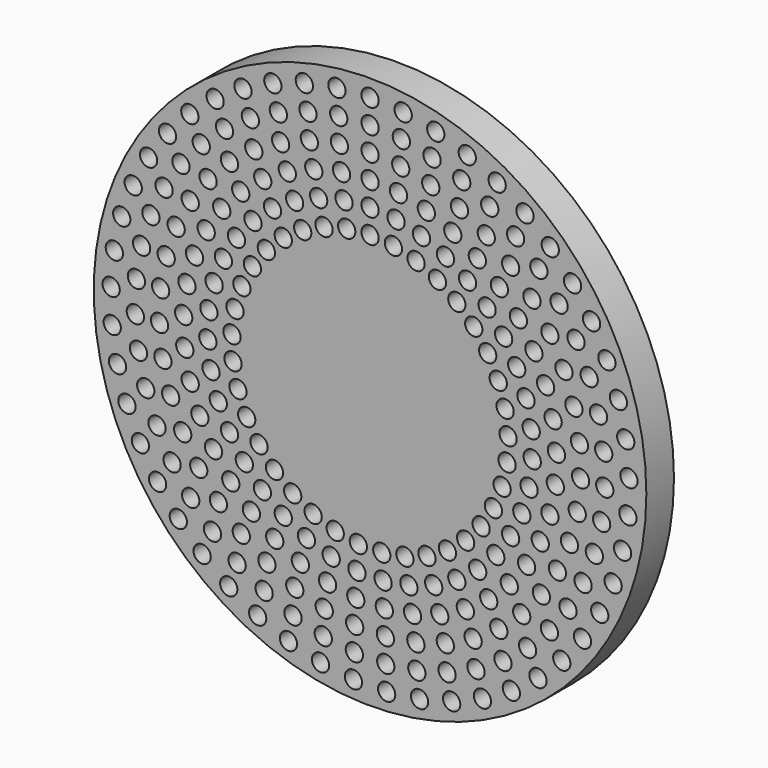
from build123d import *

# Parameters (mm, degrees)
F0_R     = 50.8
F0_R_2   = 1.5875
F1_DEPTH = 3.175


with BuildPart() as f1:
    # F0 (on Front) → F1 (new body, symmetric)
    with BuildSketch(Plane.XZ):
        Circle(F0_R)
        with Locations((-25.9811, -39.913946)):
            Circle(F0_R_2, mode=Mode.SUBTRACT)
        with Locations((-39.060704, -27.247056)):
            Circle(F0_R_2, mode=Mode.SUBTRACT)
        with Locations((-35.25574, -32.01833)):
            Circle(F0_R_2, mode=Mode.SUBTRACT)
        with Locations((-30.871877, -36.263864)):
            Circle(F0_R_2, mode=Mode.SUBTRACT)
        with Locations((-28.964485, -32.024538)):
            Circle(F0_R_2, mode=Mode.SUBTRACT)
        with Locations((-32.974502, -27.878211)):
            Circle(F0_R_2, mode=Mode.SUBTRACT)
        with Locations((-27.885461, -26.884964)):
            Circle(F0_R_2, mode=Mode.SUBTRACT)
        with Locations((-15.007029, -45.19878)):
            Circle(F0_R_2, mode=Mode.SUBTRACT)
        with Locations((-20.663713, -42.908642)):
            Circle(F0_R_2, mode=Mode.SUBTRACT)
        with Locations((-19.474617, -38.538963)):
            Circle(F0_R_2, mode=Mode.SUBTRACT)
        with Locations((-14.164113, -40.790811)):
            Circle(F0_R_2, mode=Mode.SUBTRACT)
        with Locations((-9.10393, -46.746755)):
            Circle(F0_R_2, mode=Mode.SUBTRACT)
        with Locations((-3.051344, -47.527149)):
            Circle(F0_R_2, mode=Mode.SUBTRACT)
        with Locations((-8.600851, -42.314746)):
            Circle(F0_R_2, mode=Mode.SUBTRACT)
        with Locations((-2.884106, -43.083574)):
            Circle(F0_R_2, mode=Mode.SUBTRACT)
        with Locations((-2.827474, -38.631666)):
            Circle(F0_R_2, mode=Mode.SUBTRACT)
        with Locations((-24.437596, -35.599387)):
            Circle(F0_R_2, mode=Mode.SUBTRACT)
        with Locations((-13.837339, -36.179114)):
            Circle(F0_R_2, mode=Mode.SUBTRACT)
        with Locations((-18.9576, -33.778834)):
            Circle(F0_R_2, mode=Mode.SUBTRACT)
        with Locations((-12.818187, -31.804059)):
            Circle(F0_R_2, mode=Mode.SUBTRACT)
        with Locations((-23.673814, -30.658616)):
            Circle(F0_R_2, mode=Mode.SUBTRACT)
        with Locations((-21.816753, -26.454364)):
            Circle(F0_R_2, mode=Mode.SUBTRACT)
        with Locations((-17.522831, -29.474642)):
            Circle(F0_R_2, mode=Mode.SUBTRACT)
        with Locations((-8.422158, -37.808299)):
            Circle(F0_R_2, mode=Mode.SUBTRACT)
        with Locations((-7.813097, -33.388016)):
            Circle(F0_R_2, mode=Mode.SUBTRACT)
        with Locations((-2.624874, -34.189386)):
            Circle(F0_R_2, mode=Mode.SUBTRACT)
        with Locations((-7.142376, -28.977759)):
            Circle(F0_R_2, mode=Mode.SUBTRACT)
        with Locations((-11.698243, -27.456786)):
            Circle(F0_R_2, mode=Mode.SUBTRACT)
        with Locations((-2.401525, -29.748222)):
            Circle(F0_R_2, mode=Mode.SUBTRACT)
        with Locations((-42.224292, -22.028386)):
            Circle(F0_R_2, mode=Mode.SUBTRACT)
        with Locations((-44.694559, -16.448011)):
            Circle(F0_R_2, mode=Mode.SUBTRACT)
        with Locations((-39.168186, -18.175963)):
            Circle(F0_R_2, mode=Mode.SUBTRACT)
        with Locations((-41.241326, -12.79318)):
            Circle(F0_R_2, mode=Mode.SUBTRACT)
        with Locations((-36.396088, -23.234396)):
            Circle(F0_R_2, mode=Mode.SUBTRACT)
        with Locations((-31.502778, -22.538305)):
            Circle(F0_R_2, mode=Mode.SUBTRACT)
        with Locations((-25.59931, -22.814018)):
            Circle(F0_R_2, mode=Mode.SUBTRACT)
        with Locations((-34.448668, -17.711281)):
            Circle(F0_R_2, mode=Mode.SUBTRACT)
        with Locations((-28.78184, -18.638931)):
            Circle(F0_R_2, mode=Mode.SUBTRACT)
        with Locations((-31.289749, -14.026964)):
            Circle(F0_R_2, mode=Mode.SUBTRACT)
        with Locations((-25.846528, -14.9225)):
            Circle(F0_R_2, mode=Mode.SUBTRACT)
        with Locations((-46.430942, -10.597559)):
            Circle(F0_R_2, mode=Mode.SUBTRACT)
        with Locations((-42.578514, -7.182102)):
            Circle(F0_R_2, mode=Mode.SUBTRACT)
        with Locations((-47.40493, -4.573097)):
            Circle(F0_R_2, mode=Mode.SUBTRACT)
        with Locations((-43.155887, -1.442859)):
            Circle(F0_R_2, mode=Mode.SUBTRACT)
        with Locations((-38.709158, -1.414681)):
            Circle(F0_R_2, mode=Mode.SUBTRACT)
        with Locations((-36.660345, -12.506772)):
            Circle(F0_R_2, mode=Mode.SUBTRACT)
        with Locations((-38.090669, -7.035703)):
            Circle(F0_R_2, mode=Mode.SUBTRACT)
        with Locations((-33.064252, -9.086216)):
            Circle(F0_R_2, mode=Mode.SUBTRACT)
        with Locations((-27.90556, -10.583183)):
            Circle(F0_R_2, mode=Mode.SUBTRACT)
        with Locations((-34.063758, -3.932495)):
            Circle(F0_R_2, mode=Mode.SUBTRACT)
        with Locations((-29.241852, -5.969767)):
            Circle(F0_R_2, mode=Mode.SUBTRACT)
        with Locations((-29.820796, -1.201737)):
            Circle(F0_R_2, mode=Mode.SUBTRACT)
        with Locations((-19.790896, -22.339303)):
            Circle(F0_R_2, mode=Mode.SUBTRACT)
        with Locations((-15.951133, -25.224698)):
            Circle(F0_R_2, mode=Mode.SUBTRACT)
        with Locations((-14.22336, -21.044145)):
            Circle(F0_R_2, mode=Mode.SUBTRACT)
        with Locations((-23.118085, -18.875332)):
            Circle(F0_R_2, mode=Mode.SUBTRACT)
        with Locations((-20.421527, -15.103683)):
            Circle(F0_R_2, mode=Mode.SUBTRACT)
        with Locations((-17.575247, -18.337685)):
            Circle(F0_R_2, mode=Mode.SUBTRACT)
        with Locations((-10.462292, -23.145204)):
            Circle(F0_R_2, mode=Mode.SUBTRACT)
        with Locations((-6.400243, -24.580417)):
            Circle(F0_R_2, mode=Mode.SUBTRACT)
        with Locations((-2.15407, -25.308496)):
            Circle(F0_R_2, mode=Mode.SUBTRACT)
        with Locations((-22.680317, -11.435175)):
            Circle(F0_R_2, mode=Mode.SUBTRACT)
        with Locations((-24.286635, -7.437698)):
            Circle(F0_R_2, mode=Mode.SUBTRACT)
        with Locations((-25.194271, -3.226253)):
            Circle(F0_R_2, mode=Mode.SUBTRACT)
        with Locations((3.051344, -47.527149)):
            Circle(F0_R_2, mode=Mode.SUBTRACT)
        with Locations((9.10393, -46.746755)):
            Circle(F0_R_2, mode=Mode.SUBTRACT)
        with Locations((2.884106, -43.083574)):
            Circle(F0_R_2, mode=Mode.SUBTRACT)
        with Locations((2.827474, -38.631666)):
            Circle(F0_R_2, mode=Mode.SUBTRACT)
        with Locations((8.600851, -42.314746)):
            Circle(F0_R_2, mode=Mode.SUBTRACT)
        with Locations((15.007029, -45.19878)):
            Circle(F0_R_2, mode=Mode.SUBTRACT)
        with Locations((14.164113, -40.790811)):
            Circle(F0_R_2, mode=Mode.SUBTRACT)
        with Locations((20.663713, -42.908642)):
            Circle(F0_R_2, mode=Mode.SUBTRACT)
        with Locations((19.474617, -38.538963)):
            Circle(F0_R_2, mode=Mode.SUBTRACT)
        with Locations((2.624874, -34.189386)):
            Circle(F0_R_2, mode=Mode.SUBTRACT)
        with Locations((8.422158, -37.808299)):
            Circle(F0_R_2, mode=Mode.SUBTRACT)
        with Locations((7.813097, -33.388016)):
            Circle(F0_R_2, mode=Mode.SUBTRACT)
        with Locations((2.401525, -29.748222)):
            Circle(F0_R_2, mode=Mode.SUBTRACT)
        with Locations((7.142376, -28.977759)):
            Circle(F0_R_2, mode=Mode.SUBTRACT)
        with Locations((11.698243, -27.456786)):
            Circle(F0_R_2, mode=Mode.SUBTRACT)
        with Locations((13.837339, -36.179114)):
            Circle(F0_R_2, mode=Mode.SUBTRACT)
        with Locations((12.818187, -31.804059)):
            Circle(F0_R_2, mode=Mode.SUBTRACT)
        with Locations((18.9576, -33.778834)):
            Circle(F0_R_2, mode=Mode.SUBTRACT)
        with Locations((24.437596, -35.599387)):
            Circle(F0_R_2, mode=Mode.SUBTRACT)
        with Locations((17.522831, -29.474642)):
            Circle(F0_R_2, mode=Mode.SUBTRACT)
        with Locations((23.673814, -30.658616)):
            Circle(F0_R_2, mode=Mode.SUBTRACT)
        with Locations((21.816753, -26.454364)):
            Circle(F0_R_2, mode=Mode.SUBTRACT)
        with Locations((25.9811, -39.913946)):
            Circle(F0_R_2, mode=Mode.SUBTRACT)
        with Locations((30.871877, -36.263864)):
            Circle(F0_R_2, mode=Mode.SUBTRACT)
        with Locations((28.964485, -32.024538)):
            Circle(F0_R_2, mode=Mode.SUBTRACT)
        with Locations((35.25574, -32.01833)):
            Circle(F0_R_2, mode=Mode.SUBTRACT)
        with Locations((27.885461, -26.884964)):
            Circle(F0_R_2, mode=Mode.SUBTRACT)
        with Locations((32.974502, -27.878211)):
            Circle(F0_R_2, mode=Mode.SUBTRACT)
        with Locations((39.060704, -27.247056)):
            Circle(F0_R_2, mode=Mode.SUBTRACT)
        with Locations((2.15407, -25.308496)):
            Circle(F0_R_2, mode=Mode.SUBTRACT)
        with Locations((6.400243, -24.580417)):
            Circle(F0_R_2, mode=Mode.SUBTRACT)
        with Locations((10.462292, -23.145204)):
            Circle(F0_R_2, mode=Mode.SUBTRACT)
        with Locations((15.951133, -25.224698)):
            Circle(F0_R_2, mode=Mode.SUBTRACT)
        with Locations((14.22336, -21.044145)):
            Circle(F0_R_2, mode=Mode.SUBTRACT)
        with Locations((19.790896, -22.339303)):
            Circle(F0_R_2, mode=Mode.SUBTRACT)
        with Locations((17.575247, -18.337685)):
            Circle(F0_R_2, mode=Mode.SUBTRACT)
        with Locations((23.118085, -18.875332)):
            Circle(F0_R_2, mode=Mode.SUBTRACT)
        with Locations((20.421527, -15.103683)):
            Circle(F0_R_2, mode=Mode.SUBTRACT)
        with Locations((22.680317, -11.435175)):
            Circle(F0_R_2, mode=Mode.SUBTRACT)
        with Locations((24.286635, -7.437698)):
            Circle(F0_R_2, mode=Mode.SUBTRACT)
        with Locations((25.194271, -3.226253)):
            Circle(F0_R_2, mode=Mode.SUBTRACT)
        with Locations((25.59931, -22.814018)):
            Circle(F0_R_2, mode=Mode.SUBTRACT)
        with Locations((31.502778, -22.538305)):
            Circle(F0_R_2, mode=Mode.SUBTRACT)
        with Locations((36.396088, -23.234396)):
            Circle(F0_R_2, mode=Mode.SUBTRACT)
        with Locations((28.78184, -18.638931)):
            Circle(F0_R_2, mode=Mode.SUBTRACT)
        with Locations((25.846528, -14.9225)):
            Circle(F0_R_2, mode=Mode.SUBTRACT)
        with Locations((31.289749, -14.026964)):
            Circle(F0_R_2, mode=Mode.SUBTRACT)
        with Locations((34.448668, -17.711281)):
            Circle(F0_R_2, mode=Mode.SUBTRACT)
        with Locations((42.224292, -22.028386)):
            Circle(F0_R_2, mode=Mode.SUBTRACT)
        with Locations((39.168186, -18.175963)):
            Circle(F0_R_2, mode=Mode.SUBTRACT)
        with Locations((41.241326, -12.79318)):
            Circle(F0_R_2, mode=Mode.SUBTRACT)
        with Locations((44.694559, -16.448011)):
            Circle(F0_R_2, mode=Mode.SUBTRACT)
        with Locations((27.90556, -10.583183)):
            Circle(F0_R_2, mode=Mode.SUBTRACT)
        with Locations((36.660345, -12.506772)):
            Circle(F0_R_2, mode=Mode.SUBTRACT)
        with Locations((33.064252, -9.086216)):
            Circle(F0_R_2, mode=Mode.SUBTRACT)
        with Locations((38.090669, -7.035703)):
            Circle(F0_R_2, mode=Mode.SUBTRACT)
        with Locations((29.241852, -5.969767)):
            Circle(F0_R_2, mode=Mode.SUBTRACT)
        with Locations((29.820796, -1.201737)):
            Circle(F0_R_2, mode=Mode.SUBTRACT)
        with Locations((34.063758, -3.932495)):
            Circle(F0_R_2, mode=Mode.SUBTRACT)
        with Locations((42.578514, -7.182102)):
            Circle(F0_R_2, mode=Mode.SUBTRACT)
        with Locations((46.430942, -10.597559)):
            Circle(F0_R_2, mode=Mode.SUBTRACT)
        with Locations((38.709158, -1.414681)):
            Circle(F0_R_2, mode=Mode.SUBTRACT)
        with Locations((43.155887, -1.442859)):
            Circle(F0_R_2, mode=Mode.SUBTRACT)
        with Locations((47.40493, -4.573097)):
            Circle(F0_R_2, mode=Mode.SUBTRACT)
        with Locations((-47.600531, 1.526456)):
            Circle(F0_R_2, mode=Mode.SUBTRACT)
        with Locations((-42.963142, 4.322132)):
            Circle(F0_R_2, mode=Mode.SUBTRACT)
        with Locations((-38.502628, 4.236494)):
            Circle(F0_R_2, mode=Mode.SUBTRACT)
        with Locations((-47.014532, 7.600945)):
            Circle(F0_R_2, mode=Mode.SUBTRACT)
        with Locations((-42.003719, 10.009994)):
            Circle(F0_R_2, mode=Mode.SUBTRACT)
        with Locations((-34.264837, 1.313401)):
            Circle(F0_R_2, mode=Mode.SUBTRACT)
        with Locations((-29.627396, 3.597417)):
            Circle(F0_R_2, mode=Mode.SUBTRACT)
        with Locations((-33.662778, 6.528511)):
            Circle(F0_R_2, mode=Mode.SUBTRACT)
        with Locations((-37.475481, 9.797375)):
            Circle(F0_R_2, mode=Mode.SUBTRACT)
        with Locations((-32.271692, 11.590599)):
            Circle(F0_R_2, mode=Mode.SUBTRACT)
        with Locations((-28.666663, 8.3034)):
            Circle(F0_R_2, mode=Mode.SUBTRACT)
        with Locations((-45.656557, 13.550626)):
            Circle(F0_R_2, mode=Mode.SUBTRACT)
        with Locations((-40.294739, 15.519228)):
            Circle(F0_R_2, mode=Mode.SUBTRACT)
        with Locations((-43.548901, 19.277807)):
            Circle(F0_R_2, mode=Mode.SUBTRACT)
        with Locations((-40.726174, 24.688446)):
            Circle(F0_R_2, mode=Mode.SUBTRACT)
        with Locations((-35.649609, 15.149441)):
            Circle(F0_R_2, mode=Mode.SUBTRACT)
        with Locations((-26.963478, 12.794329)):
            Circle(F0_R_2, mode=Mode.SUBTRACT)
        with Locations((-30.124185, 16.381013)):
            Circle(F0_R_2, mode=Mode.SUBTRACT)
        with Locations((-37.866698, 20.75152)):
            Circle(F0_R_2, mode=Mode.SUBTRACT)
        with Locations((-33.063928, 20.178624)):
            Circle(F0_R_2, mode=Mode.SUBTRACT)
        with Locations((-27.270593, 20.787469)):
            Circle(F0_R_2, mode=Mode.SUBTRACT)
        with Locations((-29.773547, 24.777734)):
            Circle(F0_R_2, mode=Mode.SUBTRACT)
        with Locations((-25.377114, 1.078007)):
            Circle(F0_R_2, mode=Mode.SUBTRACT)
        with Locations((-24.829903, 5.351253)):
            Circle(F0_R_2, mode=Mode.SUBTRACT)
        with Locations((-23.568381, 9.470555)):
            Circle(F0_R_2, mode=Mode.SUBTRACT)
        with Locations((-21.62884, 13.317405)):
            Circle(F0_R_2, mode=Mode.SUBTRACT)
        with Locations((-24.561953, 16.953892)):
            Circle(F0_R_2, mode=Mode.SUBTRACT)
        with Locations((-19.067077, 16.781138)):
            Circle(F0_R_2, mode=Mode.SUBTRACT)
        with Locations((-21.524287, 20.674358)):
            Circle(F0_R_2, mode=Mode.SUBTRACT)
        with Locations((-23.7778, 24.706685)):
            Circle(F0_R_2, mode=Mode.SUBTRACT)
        with Locations((-15.956788, 19.762108)):
            Circle(F0_R_2, mode=Mode.SUBTRACT)
        with Locations((-17.929153, 23.859369)):
            Circle(F0_R_2, mode=Mode.SUBTRACT)
        with Locations((-12.387452, 22.174558)):
            Circle(F0_R_2, mode=Mode.SUBTRACT)
        with Locations((-8.461751, 23.949087)):
            Circle(F0_R_2, mode=Mode.SUBTRACT)
        with Locations((-4.292621, 25.034644)):
            Circle(F0_R_2, mode=Mode.SUBTRACT)
        with Locations((0, 25.4)):
            Circle(F0_R_2, mode=Mode.SUBTRACT)
        with Locations((-34.762925, 25.613501)):
            Circle(F0_R_2, mode=Mode.SUBTRACT)
        with Locations((-37.234724, 29.693702)):
            Circle(F0_R_2, mode=Mode.SUBTRACT)
        with Locations((-31.038807, 30.018409)):
            Circle(F0_R_2, mode=Mode.SUBTRACT)
        with Locations((-25.848594, 28.84875)):
            Circle(F0_R_2, mode=Mode.SUBTRACT)
        with Locations((-33.131881, 34.211388)):
            Circle(F0_R_2, mode=Mode.SUBTRACT)
        with Locations((-26.7608, 33.887637)):
            Circle(F0_R_2, mode=Mode.SUBTRACT)
        with Locations((-28.485014, 38.167324)):
            Circle(F0_R_2, mode=Mode.SUBTRACT)
        with Locations((-19.727677, 28.046798)):
            Circle(F0_R_2, mode=Mode.SUBTRACT)
        with Locations((-13.869663, 26.426435)):
            Circle(F0_R_2, mode=Mode.SUBTRACT)
        with Locations((-15.215153, 30.729517)):
            Circle(F0_R_2, mode=Mode.SUBTRACT)
        with Locations((-21.372723, 32.304905)):
            Circle(F0_R_2, mode=Mode.SUBTRACT)
        with Locations((-22.005247, 37.15214)):
            Circle(F0_R_2, mode=Mode.SUBTRACT)
        with Locations((-16.44133, 35.072537)):
            Circle(F0_R_2, mode=Mode.SUBTRACT)
        with Locations((-9.450956, 28.30907)):
            Circle(F0_R_2, mode=Mode.SUBTRACT)
        with Locations((-4.787475, 29.458515)):
            Circle(F0_R_2, mode=Mode.SUBTRACT)
        with Locations((0, 29.845)):
            Circle(F0_R_2, mode=Mode.SUBTRACT)
        with Locations((-10.345999, 32.691962)):
            Circle(F0_R_2, mode=Mode.SUBTRACT)
        with Locations((-11.159519, 37.092659)):
            Circle(F0_R_2, mode=Mode.SUBTRACT)
        with Locations((-5.234344, 33.888136)):
            Circle(F0_R_2, mode=Mode.SUBTRACT)
        with Locations((0, 34.29)):
            Circle(F0_R_2, mode=Mode.SUBTRACT)
        with Locations((-23.370423, 41.496553)):
            Circle(F0_R_2, mode=Mode.SUBTRACT)
        with Locations((-16.857009, 39.753662)):
            Circle(F0_R_2, mode=Mode.SUBTRACT)
        with Locations((-17.872091, 44.144411)):
            Circle(F0_R_2, mode=Mode.SUBTRACT)
        with Locations((-11.407957, 41.645779)):
            Circle(F0_R_2, mode=Mode.SUBTRACT)
        with Locations((-5.639861, 38.322215)):
            Circle(F0_R_2, mode=Mode.SUBTRACT)
        with Locations((0, 38.735)):
            Circle(F0_R_2, mode=Mode.SUBTRACT)
        with Locations((-5.755331, 42.794726)):
            Circle(F0_R_2, mode=Mode.SUBTRACT)
        with Locations((0, 43.18)):
            Circle(F0_R_2, mode=Mode.SUBTRACT)
        with Locations((-12.0803, 46.067418)):
            Circle(F0_R_2, mode=Mode.SUBTRACT)
        with Locations((-6.09015, 47.233999)):
            Circle(F0_R_2, mode=Mode.SUBTRACT)
        with Locations((0, 47.625)):
            Circle(F0_R_2, mode=Mode.SUBTRACT)
        with Locations((25.377114, 1.078007)):
            Circle(F0_R_2, mode=Mode.SUBTRACT)
        with Locations((24.829903, 5.351253)):
            Circle(F0_R_2, mode=Mode.SUBTRACT)
        with Locations((23.568381, 9.470555)):
            Circle(F0_R_2, mode=Mode.SUBTRACT)
        with Locations((4.292621, 25.034644)):
            Circle(F0_R_2, mode=Mode.SUBTRACT)
        with Locations((12.387452, 22.174558)):
            Circle(F0_R_2, mode=Mode.SUBTRACT)
        with Locations((8.461751, 23.949087)):
            Circle(F0_R_2, mode=Mode.SUBTRACT)
        with Locations((21.62884, 13.317405)):
            Circle(F0_R_2, mode=Mode.SUBTRACT)
        with Locations((19.067077, 16.781138)):
            Circle(F0_R_2, mode=Mode.SUBTRACT)
        with Locations((24.561953, 16.953892)):
            Circle(F0_R_2, mode=Mode.SUBTRACT)
        with Locations((15.956788, 19.762108)):
            Circle(F0_R_2, mode=Mode.SUBTRACT)
        with Locations((17.929153, 23.859369)):
            Circle(F0_R_2, mode=Mode.SUBTRACT)
        with Locations((21.524287, 20.674358)):
            Circle(F0_R_2, mode=Mode.SUBTRACT)
        with Locations((23.7778, 24.706685)):
            Circle(F0_R_2, mode=Mode.SUBTRACT)
        with Locations((29.627396, 3.597417)):
            Circle(F0_R_2, mode=Mode.SUBTRACT)
        with Locations((34.264837, 1.313401)):
            Circle(F0_R_2, mode=Mode.SUBTRACT)
        with Locations((28.666663, 8.3034)):
            Circle(F0_R_2, mode=Mode.SUBTRACT)
        with Locations((33.662778, 6.528511)):
            Circle(F0_R_2, mode=Mode.SUBTRACT)
        with Locations((32.271692, 11.590599)):
            Circle(F0_R_2, mode=Mode.SUBTRACT)
        with Locations((37.475481, 9.797375)):
            Circle(F0_R_2, mode=Mode.SUBTRACT)
        with Locations((38.502628, 4.236494)):
            Circle(F0_R_2, mode=Mode.SUBTRACT)
        with Locations((42.963142, 4.322132)):
            Circle(F0_R_2, mode=Mode.SUBTRACT)
        with Locations((47.600531, 1.526456)):
            Circle(F0_R_2, mode=Mode.SUBTRACT)
        with Locations((42.003719, 10.009994)):
            Circle(F0_R_2, mode=Mode.SUBTRACT)
        with Locations((47.014532, 7.600945)):
            Circle(F0_R_2, mode=Mode.SUBTRACT)
        with Locations((26.963478, 12.794329)):
            Circle(F0_R_2, mode=Mode.SUBTRACT)
        with Locations((30.124185, 16.381013)):
            Circle(F0_R_2, mode=Mode.SUBTRACT)
        with Locations((35.649609, 15.149441)):
            Circle(F0_R_2, mode=Mode.SUBTRACT)
        with Locations((27.270593, 20.787469)):
            Circle(F0_R_2, mode=Mode.SUBTRACT)
        with Locations((29.773547, 24.777734)):
            Circle(F0_R_2, mode=Mode.SUBTRACT)
        with Locations((33.063928, 20.178624)):
            Circle(F0_R_2, mode=Mode.SUBTRACT)
        with Locations((37.866698, 20.75152)):
            Circle(F0_R_2, mode=Mode.SUBTRACT)
        with Locations((40.294739, 15.519228)):
            Circle(F0_R_2, mode=Mode.SUBTRACT)
        with Locations((45.656557, 13.550626)):
            Circle(F0_R_2, mode=Mode.SUBTRACT)
        with Locations((43.548901, 19.277807)):
            Circle(F0_R_2, mode=Mode.SUBTRACT)
        with Locations((40.726174, 24.688446)):
            Circle(F0_R_2, mode=Mode.SUBTRACT)
        with Locations((4.787475, 29.458515)):
            Circle(F0_R_2, mode=Mode.SUBTRACT)
        with Locations((9.450956, 28.30907)):
            Circle(F0_R_2, mode=Mode.SUBTRACT)
        with Locations((5.234344, 33.888136)):
            Circle(F0_R_2, mode=Mode.SUBTRACT)
        with Locations((10.345999, 32.691962)):
            Circle(F0_R_2, mode=Mode.SUBTRACT)
        with Locations((11.159519, 37.092659)):
            Circle(F0_R_2, mode=Mode.SUBTRACT)
        with Locations((13.869663, 26.426435)):
            Circle(F0_R_2, mode=Mode.SUBTRACT)
        with Locations((15.215153, 30.729517)):
            Circle(F0_R_2, mode=Mode.SUBTRACT)
        with Locations((19.727677, 28.046798)):
            Circle(F0_R_2, mode=Mode.SUBTRACT)
        with Locations((16.44133, 35.072537)):
            Circle(F0_R_2, mode=Mode.SUBTRACT)
        with Locations((21.372723, 32.304905)):
            Circle(F0_R_2, mode=Mode.SUBTRACT)
        with Locations((22.005247, 37.15214)):
            Circle(F0_R_2, mode=Mode.SUBTRACT)
        with Locations((5.639861, 38.322215)):
            Circle(F0_R_2, mode=Mode.SUBTRACT)
        with Locations((5.755331, 42.794726)):
            Circle(F0_R_2, mode=Mode.SUBTRACT)
        with Locations((11.407957, 41.645779)):
            Circle(F0_R_2, mode=Mode.SUBTRACT)
        with Locations((6.09015, 47.233999)):
            Circle(F0_R_2, mode=Mode.SUBTRACT)
        with Locations((12.0803, 46.067418)):
            Circle(F0_R_2, mode=Mode.SUBTRACT)
        with Locations((16.857009, 39.753662)):
            Circle(F0_R_2, mode=Mode.SUBTRACT)
        with Locations((17.872091, 44.144411)):
            Circle(F0_R_2, mode=Mode.SUBTRACT)
        with Locations((23.370423, 41.496553)):
            Circle(F0_R_2, mode=Mode.SUBTRACT)
        with Locations((25.848594, 28.84875)):
            Circle(F0_R_2, mode=Mode.SUBTRACT)
        with Locations((31.038807, 30.018409)):
            Circle(F0_R_2, mode=Mode.SUBTRACT)
        with Locations((34.762925, 25.613501)):
            Circle(F0_R_2, mode=Mode.SUBTRACT)
        with Locations((37.234724, 29.693702)):
            Circle(F0_R_2, mode=Mode.SUBTRACT)
        with Locations((26.7608, 33.887637)):
            Circle(F0_R_2, mode=Mode.SUBTRACT)
        with Locations((33.131881, 34.211388)):
            Circle(F0_R_2, mode=Mode.SUBTRACT)
        with Locations((28.485014, 38.167324)):
            Circle(F0_R_2, mode=Mode.SUBTRACT)
    extrude(amount=F1_DEPTH, both=True)


solid = f1.part
